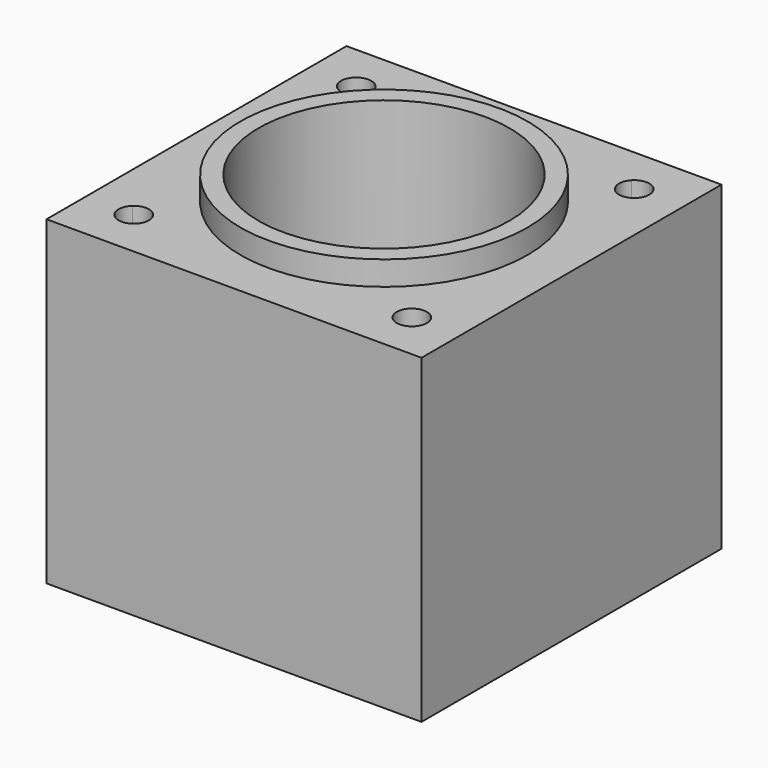
from build123d import *

# Parameters (mm, degrees)
F0_W     = 62
F0_H     = 62
F0_R     = 20.75
F1_DEPTH = 53
F2_R     = 23.75
F2_R_2   = 20.75
F3_DEPTH = 4
F4_R     = 27.5
F4_R_2   = 20.75
F5_DEPTH = 5
F7_DEPTH = 53.001


with BuildPart() as f1:
    # F0 (on Top) → F1 (new body)
    with BuildSketch(Plane.XY):
        Rectangle(F0_W, F0_H)
        Circle(F0_R, mode=Mode.SUBTRACT)
    extrude(amount=F1_DEPTH)

    # F2 (on face) → F3 (join)
    with BuildSketch(Plane.XY.offset(53)):
        Circle(F2_R)
        Circle(F2_R_2, mode=Mode.SUBTRACT)
    extrude(amount=F3_DEPTH)

    # F4 (on face) → F5 (cut)
    with BuildSketch(Plane(origin=(0, 0, 0), x_dir=(1, 0, 0), z_dir=(0, 0, -1))):
        Circle(F4_R)
        Circle(F4_R_2, mode=Mode.SUBTRACT)
    extrude(amount=-F5_DEPTH, mode=Mode.SUBTRACT)

    # F6 (on face) → F7 (cut, through all)
    with BuildSketch(Plane.XY.offset(53)):
        with BuildLine():
            ThreePointArc((-24.679438301, 21.1465204028), (-22.9809703886, 22.9809703886), (-21.1465204028, 24.679438301))
            ThreePointArc((-21.1465204028, 24.679438301), (-24.7487373415, 24.7487373415), (-24.679438301, 21.1465204028))
        make_face()
        with BuildLine():
            ThreePointArc((-20.4809703886, 22.9809703886), (-20.653297198, 23.8930764777), (-21.1465204028, 24.679438301))
            ThreePointArc((-21.1465204028, 24.679438301), (-22.9809703886, 22.9809703886), (-24.679438301, 21.1465204028))
            ThreePointArc((-24.679438301, 21.1465204028), (-21.9800132919, 20.6901004903), (-20.4809703886, 22.9809703886))
        make_face()
        with BuildLine():
            ThreePointArc((21.1465204028, 24.679438301), (22.0800828621, 23.8478498151), (22.9809703886, 22.9809703886))
            Line((22.9809703886, 22.9809703886), (24.7487373415, 24.7487373415))
            ThreePointArc((24.7487373415, 24.7487373415), (22.9328845698, 25.4805078966), (21.1465204028, 24.679438301))
        make_face()
        with BuildLine():
            ThreePointArc((22.9809703886, 22.9809703886), (23.8478498151, 22.0800828621), (24.679438301, 21.1465204028))
            ThreePointArc((24.679438301, 21.1465204028), (25.2718402868, 21.9800132919), (25.4809703886, 22.9809703886))
            ThreePointArc((25.4809703886, 22.9809703886), (25.2906692198, 23.9376789695), (24.7487373415, 24.7487373415))
            Line((24.7487373415, 24.7487373415), (22.9809703886, 22.9809703886))
        make_face()
        with BuildLine():
            ThreePointArc((21.2132034356, 21.2132034356), (22.9328845698, 20.4814328805), (24.679438301, 21.1465204028))
            ThreePointArc((24.679438301, 21.1465204028), (23.8478498151, 22.0800828621), (22.9809703886, 22.9809703886))
            Line((22.9809703886, 22.9809703886), (21.2132034356, 21.2132034356))
        make_face()
        with BuildLine():
            Line((21.2132034356, 21.2132034356), (22.9809703886, 22.9809703886))
            ThreePointArc((22.9809703886, 22.9809703886), (22.0800828621, 23.8478498151), (21.1465204028, 24.679438301))
            ThreePointArc((21.1465204028, 24.679438301), (20.4814328805, 22.9328845698), (21.2132034356, 21.2132034356))
        make_face()
        with BuildLine():
            ThreePointArc((21.1465204028, -24.679438301), (22.9809703886, -22.9809703886), (24.679438301, -21.1465204028))
            ThreePointArc((24.679438301, -21.1465204028), (21.2132034356, -21.2132034356), (21.1465204028, -24.679438301))
        make_face()
        with BuildLine():
            ThreePointArc((25.4809703886, -22.9809703886), (25.2718402868, -21.9800132919), (24.679438301, -21.1465204028))
            ThreePointArc((24.679438301, -21.1465204028), (22.9809703886, -22.9809703886), (21.1465204028, -24.679438301))
            ThreePointArc((21.1465204028, -24.679438301), (23.8930764777, -25.3086435792), (25.4809703886, -22.9809703886))
        make_face()
        with BuildLine():
            ThreePointArc((-24.679438301, -21.1465204028), (-24.7487373415, -24.7487373415), (-21.1465204028, -24.679438301))
            ThreePointArc((-21.1465204028, -24.679438301), (-22.9809703886, -22.9809703886), (-24.679438301, -21.1465204028))
        make_face()
        with BuildLine():
            ThreePointArc((-24.679438301, -21.1465204028), (-22.9809703886, -22.9809703886), (-21.1465204028, -24.679438301))
            ThreePointArc((-21.1465204028, -24.679438301), (-20.653297198, -23.8930764777), (-20.4809703886, -22.9809703886))
            ThreePointArc((-20.4809703886, -22.9809703886), (-21.9800132919, -20.6901004903), (-24.679438301, -21.1465204028))
        make_face()
    extrude(amount=-F7_DEPTH, mode=Mode.SUBTRACT)


solid = f1.part
